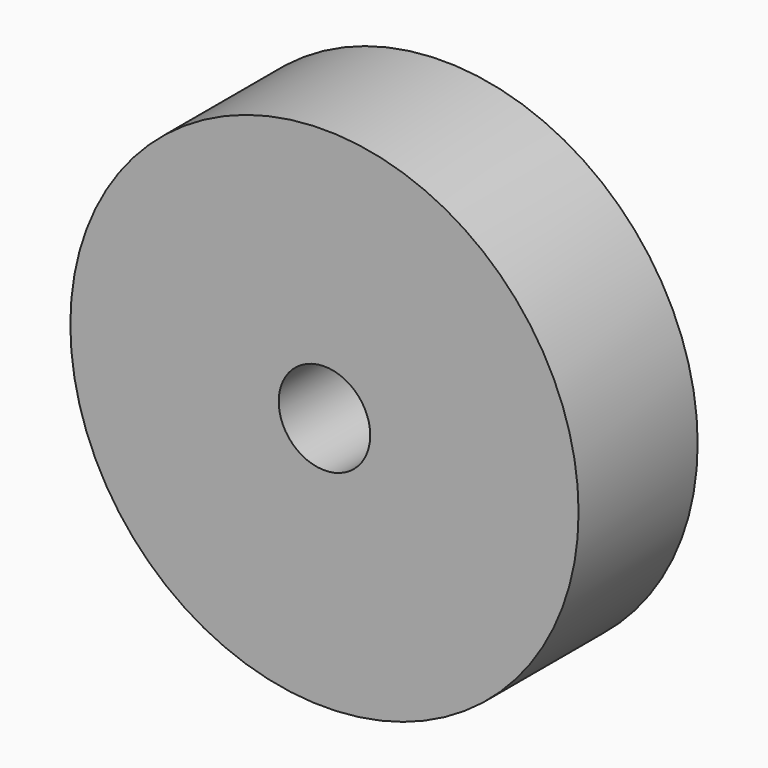
from build123d import *

# Parameters (mm, degrees)
F0_R     = 43.364519
F0_R_2   = 29.495708
F0_R_3   = 16.782399
F0_R_4   = 7.809708
F1_DEPTH = 25.4


with BuildPart() as f1:
    # F0 (on Front) → F1 (new body)
    with BuildSketch(Plane.XZ):
        Circle(F0_R)
        Circle(F0_R_2, mode=Mode.SUBTRACT)
        Circle(F0_R_2)
        Circle(F0_R_3, mode=Mode.SUBTRACT)
        Circle(F0_R_3)
        Circle(F0_R_4, mode=Mode.SUBTRACT)
    extrude(amount=F1_DEPTH)


solid = f1.part
